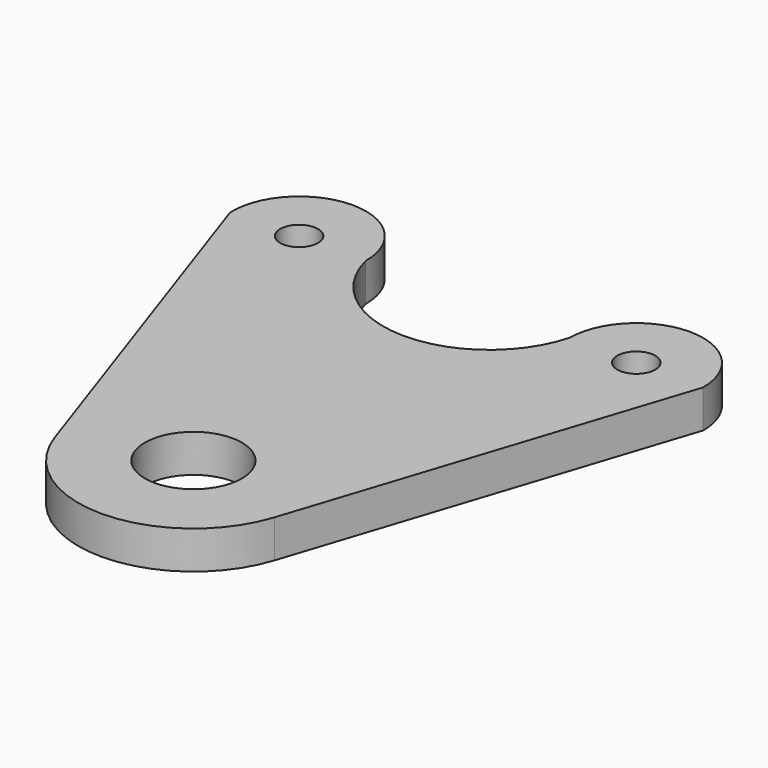
from build123d import *

# Parameters (mm, degrees)
F0_R     = 4.064
F0_R_2   = 1.5875
F1_DEPTH = 3.175


with BuildPart() as f1:
    # F0 (on Top) → F1 (new body)
    with BuildSketch(Plane.XY):
        with BuildLine():
            ThreePointArc((-10.409411, 38.146532), (-19.071367, 31.560942), (-27.622774, 38.289456))
            ThreePointArc((-27.622774, 38.289456), (-33.321705, 43.939553), (-38.826343, 38.1))
            Line((-38.826343, 38.1), (-27.879121, 6.072861))
            ThreePointArc((-27.879121, 6.072861), (-18.693227, -0.445875), (-9.600745, 6.202533))
            ThreePointArc((-9.600745, 6.202533), (-9.600626, 6.2029), (-9.600506, 6.203266))
            Line((-9.600506, 6.203266), (0.799111, 38.1))
            ThreePointArc((0.799111, 38.1), (-4.781981, 43.704309), (-10.409411, 38.146532))
        make_face()
        with Locations((-18.761582, 9.189334)):
            Circle(F0_R, mode=Mode.SUBTRACT)
        with Locations((-33.226947, 38.335988)):
            Circle(F0_R_2, mode=Mode.SUBTRACT)
        with Locations((-4.805247, 38.1)):
            Circle(F0_R_2, mode=Mode.SUBTRACT)
    extrude(amount=F1_DEPTH)


solid = f1.part
